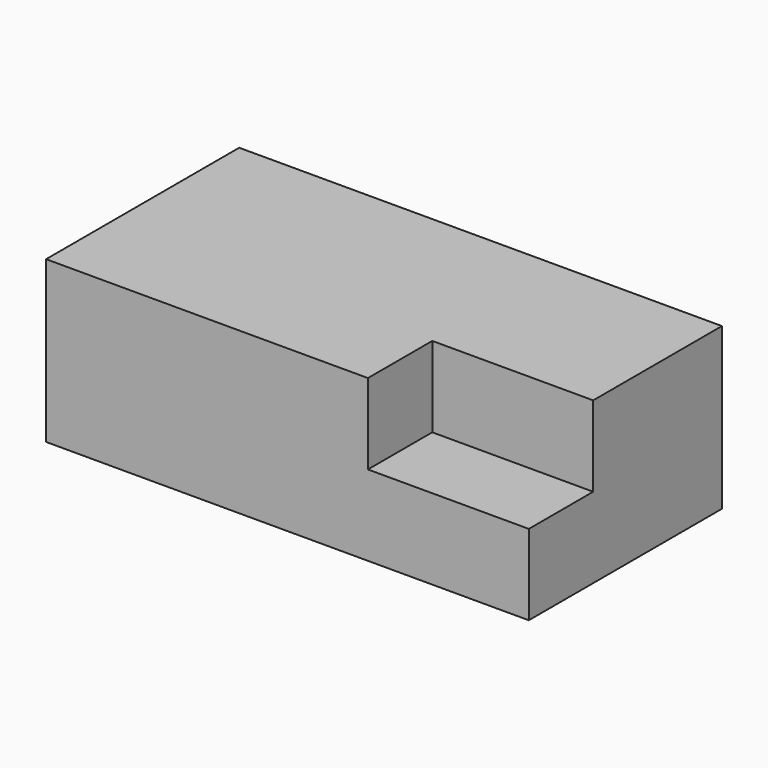
from build123d import *

# Parameters (mm, degrees)
F0_W     = 25.4
F0_H     = 25.4
F1_DEPTH = 152.4
F3_W     = 50.8
F3_H     = 25.4
F4_DEPTH = 25.4


with BuildPart() as f1:
    # F0 (on Right) → F1 (new body)
    with BuildSketch(Plane.YZ):
        Polygon((0, 25.4), (0, 0), (76.2, 0), (76.2, 50.8), (25.4, 50.8), (25.4, 25.4), align=None)
        with Locations((12.7, 38.1)):
            Rectangle(F0_W, F0_H)
    extrude(amount=F1_DEPTH)

    # F3 (on face) → F4 (cut)
    with BuildSketch(Plane.XY.offset(50.8)):
        with Locations((127, 12.7)):
            Rectangle(F3_W, F3_H)
    extrude(amount=-F4_DEPTH, mode=Mode.SUBTRACT)


solid = f1.part
